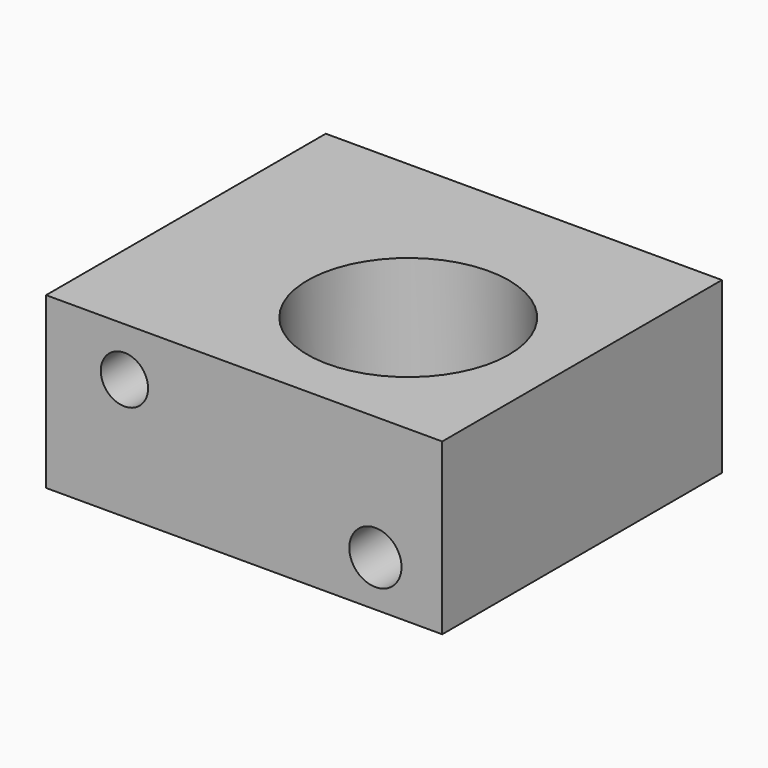
from build123d import *

# Parameters (mm, degrees)
F0_W     = 177.8
F0_H     = 76.2
F5_DEPTH = 156.920815
F1_R     = 45.202558
F2_DEPTH = 72.338598
F3_R     = 10.618038
F3_R_2   = 11.724793
F4_DEPTH = 25.4


with BuildPart() as f5:
    # F0 (on Front) → F5 (new body)
    with BuildSketch(Plane.XZ):
        with Locations((67.268712, 38.1)):
            Rectangle(F0_W, F0_H)
    extrude(amount=F5_DEPTH)

    # F1 (on face) → F2 (cut)
    with BuildSketch(Plane.XY.offset(76.2)):
        with Locations((88.101327, -90.911075)):
            Circle(F1_R)
    extrude(amount=-F2_DEPTH, mode=Mode.SUBTRACT)

    # F3 (on face) → F4 (cut)
    with BuildSketch(Plane.XZ.offset(156.920815)):
        with Locations((13.535074, 54.284833)):
            Circle(F3_R)
        with Locations((126.181513, 20.620376)):
            Circle(F3_R_2)
    extrude(amount=-F4_DEPTH, mode=Mode.SUBTRACT)


solid = f5.part
